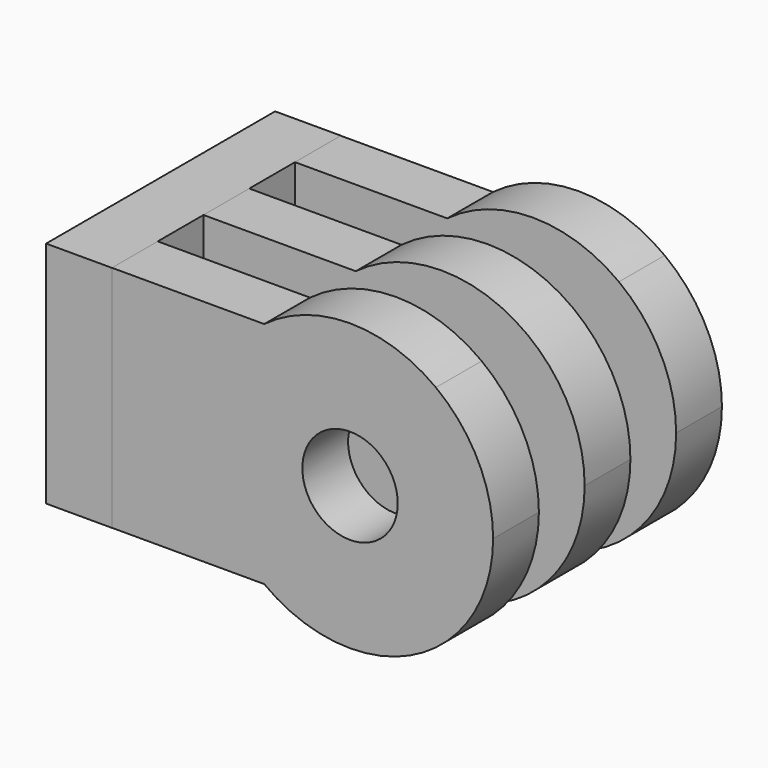
from build123d import *

# Parameters (mm, degrees)
F0_W      = 8.9999904667
F0_H      = 12.0000014
F0_R      = 2.499995
F1_DEPTH  = 1.499997
F2_DEPTH  = 2.999994
F4_DEPTH  = 2.999994
F6_DEPTH  = 2.999994
F8_DEPTH  = 2.999994
F10_W     = 3.4485142678
F10_H     = 12.0000014
F11_DEPTH = 7.504303


with BuildPart() as f1:
    # F0 (on Front) → F1 (new body, symmetric)
    with BuildSketch(Plane.XZ):
        with BuildLine():
            ThreePointArc((4.4999952333, -6.0000007), (6.7082009287, -3.3541028309), (7.4999977, 0))
            ThreePointArc((7.4999977, 0), (6.7082009287, 3.3541028309), (4.4999952333, 6.0000007))
            Line((4.4999952333, 6.0000007), (4.4999952333, -6.0000007))
        make_face()
        with BuildLine():
            Line((-4.4999952333, 6.0000007), (4.4999952333, 6.0000007))
            ThreePointArc((4.4999952333, 6.0000007), (0, 7.4999977), (-4.4999952333, 6.0000007))
        make_face()
        Rectangle(F0_W, F0_H)
        Circle(F0_R, mode=Mode.SUBTRACT)
        with BuildLine():
            ThreePointArc((-4.4999952333, -6.0000007), (0, -7.4999977), (4.4999952333, -6.0000007))
            Line((4.4999952333, -6.0000007), (-4.4999952333, -6.0000007))
        make_face()
        with BuildLine():
            Line((-4.4999952333, -6.0000007), (-4.4999952333, 6.0000007))
            ThreePointArc((-4.4999952333, 6.0000007), (-7.4999977, 0), (-4.4999952333, -6.0000007))
        make_face()
        with BuildLine():
            ThreePointArc((-4.4999952333, -6.0000007), (-7.4999977, 0), (-4.4999952333, 6.0000007))
            Line((-4.4999952333, 6.0000007), (-12.4999961667, 6.0000007))
            Line((-12.4999961667, 6.0000007), (-12.4999961667, -6.0000007))
            Line((-12.4999961667, -6.0000007), (-4.4999952333, -6.0000007))
        make_face()
    extrude(amount=F1_DEPTH, both=True)


with BuildPart() as f2:
    # F0 (on Front) → F2 (new body)
    with BuildSketch(Plane.XZ):
        with BuildLine():
            ThreePointArc((4.4999952333, -6.0000007), (6.7082009287, -3.3541028309), (7.4999977, 0))
            ThreePointArc((7.4999977, 0), (6.7082009287, 3.3541028309), (4.4999952333, 6.0000007))
            Line((4.4999952333, 6.0000007), (4.4999952333, -6.0000007))
        make_face()
        with BuildLine():
            Line((-4.4999952333, 6.0000007), (4.4999952333, 6.0000007))
            ThreePointArc((4.4999952333, 6.0000007), (0, 7.4999977), (-4.4999952333, 6.0000007))
        make_face()
        Rectangle(F0_W, F0_H)
        Circle(F0_R, mode=Mode.SUBTRACT)
        with BuildLine():
            ThreePointArc((-4.4999952333, -6.0000007), (0, -7.4999977), (4.4999952333, -6.0000007))
            Line((4.4999952333, -6.0000007), (-4.4999952333, -6.0000007))
        make_face()
        with BuildLine():
            Line((-4.4999952333, -6.0000007), (-4.4999952333, 6.0000007))
            ThreePointArc((-4.4999952333, 6.0000007), (-7.4999977, 0), (-4.4999952333, -6.0000007))
        make_face()
        with BuildLine():
            ThreePointArc((-4.4999952333, -6.0000007), (-7.4999977, 0), (-4.4999952333, 6.0000007))
            Line((-4.4999952333, 6.0000007), (-12.4999961667, 6.0000007))
            Line((-12.4999961667, 6.0000007), (-12.4999961667, -6.0000007))
            Line((-12.4999961667, -6.0000007), (-4.4999952333, -6.0000007))
        make_face()
    extrude(amount=-F2_DEPTH)


with BuildPart() as f2_1:
    # F3: moved
    add(f2.part.moved(Location((0, 1.4986, 0))))


with BuildPart() as f4:
    # F0 (on Front) → F4 (new body)
    with BuildSketch(Plane.XZ):
        with BuildLine():
            ThreePointArc((4.4999952333, -6.0000007), (6.7082009287, -3.3541028309), (7.4999977, 0))
            ThreePointArc((7.4999977, 0), (6.7082009287, 3.3541028309), (4.4999952333, 6.0000007))
            Line((4.4999952333, 6.0000007), (4.4999952333, -6.0000007))
        make_face()
        with BuildLine():
            Line((-4.4999952333, 6.0000007), (4.4999952333, 6.0000007))
            ThreePointArc((4.4999952333, 6.0000007), (0, 7.4999977), (-4.4999952333, 6.0000007))
        make_face()
        Rectangle(F0_W, F0_H)
        Circle(F0_R, mode=Mode.SUBTRACT)
        with BuildLine():
            ThreePointArc((-4.4999952333, -6.0000007), (0, -7.4999977), (4.4999952333, -6.0000007))
            Line((4.4999952333, -6.0000007), (-4.4999952333, -6.0000007))
        make_face()
        with BuildLine():
            Line((-4.4999952333, -6.0000007), (-4.4999952333, 6.0000007))
            ThreePointArc((-4.4999952333, 6.0000007), (-7.4999977, 0), (-4.4999952333, -6.0000007))
        make_face()
        with BuildLine():
            ThreePointArc((-4.4999952333, -6.0000007), (-7.4999977, 0), (-4.4999952333, 6.0000007))
            Line((-4.4999952333, 6.0000007), (-12.4999961667, 6.0000007))
            Line((-12.4999961667, 6.0000007), (-12.4999961667, -6.0000007))
            Line((-12.4999961667, -6.0000007), (-4.4999952333, -6.0000007))
        make_face()
    extrude(amount=F4_DEPTH)


with BuildPart() as f4_1:
    # F5: moved
    add(f4.part.moved(Location((0, -1.500124, 0))))


with BuildPart() as f6:
    # F0 (on Front) → F6 (new body)
    with BuildSketch(Plane.XZ):
        with BuildLine():
            ThreePointArc((4.4999952333, -6.0000007), (6.7082009287, -3.3541028309), (7.4999977, 0))
            ThreePointArc((7.4999977, 0), (6.7082009287, 3.3541028309), (4.4999952333, 6.0000007))
            Line((4.4999952333, 6.0000007), (4.4999952333, -6.0000007))
        make_face()
        with BuildLine():
            Line((-4.4999952333, 6.0000007), (4.4999952333, 6.0000007))
            ThreePointArc((4.4999952333, 6.0000007), (0, 7.4999977), (-4.4999952333, 6.0000007))
        make_face()
        Rectangle(F0_W, F0_H)
        Circle(F0_R, mode=Mode.SUBTRACT)
        with BuildLine():
            ThreePointArc((-4.4999952333, -6.0000007), (0, -7.4999977), (4.4999952333, -6.0000007))
            Line((4.4999952333, -6.0000007), (-4.4999952333, -6.0000007))
        make_face()
        with BuildLine():
            Line((-4.4999952333, -6.0000007), (-4.4999952333, 6.0000007))
            ThreePointArc((-4.4999952333, 6.0000007), (-7.4999977, 0), (-4.4999952333, -6.0000007))
        make_face()
        with BuildLine():
            ThreePointArc((-4.4999952333, -6.0000007), (-7.4999977, 0), (-4.4999952333, 6.0000007))
            Line((-4.4999952333, 6.0000007), (-12.4999961667, 6.0000007))
            Line((-12.4999961667, 6.0000007), (-12.4999961667, -6.0000007))
            Line((-12.4999961667, -6.0000007), (-4.4999952333, -6.0000007))
        make_face()
    extrude(amount=F6_DEPTH)


with BuildPart() as f6_1:
    # F7: moved
    add(f6.part.moved(Location((0, -4.49834, 0))))


with BuildPart() as f8:
    # F0 (on Front) → F8 (new body)
    with BuildSketch(Plane.XZ):
        with BuildLine():
            ThreePointArc((4.4999952333, -6.0000007), (6.7082009287, -3.3541028309), (7.4999977, 0))
            ThreePointArc((7.4999977, 0), (6.7082009287, 3.3541028309), (4.4999952333, 6.0000007))
            Line((4.4999952333, 6.0000007), (4.4999952333, -6.0000007))
        make_face()
        with BuildLine():
            Line((-4.4999952333, 6.0000007), (4.4999952333, 6.0000007))
            ThreePointArc((4.4999952333, 6.0000007), (0, 7.4999977), (-4.4999952333, 6.0000007))
        make_face()
        Rectangle(F0_W, F0_H)
        Circle(F0_R, mode=Mode.SUBTRACT)
        with BuildLine():
            ThreePointArc((-4.4999952333, -6.0000007), (0, -7.4999977), (4.4999952333, -6.0000007))
            Line((4.4999952333, -6.0000007), (-4.4999952333, -6.0000007))
        make_face()
        with BuildLine():
            Line((-4.4999952333, -6.0000007), (-4.4999952333, 6.0000007))
            ThreePointArc((-4.4999952333, 6.0000007), (-7.4999977, 0), (-4.4999952333, -6.0000007))
        make_face()
        with BuildLine():
            ThreePointArc((-4.4999952333, -6.0000007), (-7.4999977, 0), (-4.4999952333, 6.0000007))
            Line((-4.4999952333, 6.0000007), (-12.4999961667, 6.0000007))
            Line((-12.4999961667, 6.0000007), (-12.4999961667, -6.0000007))
            Line((-12.4999961667, -6.0000007), (-4.4999952333, -6.0000007))
        make_face()
    extrude(amount=F8_DEPTH)


with BuildPart() as f8_1:
    # F9: moved
    add(f8.part.moved(Location((0, 7.49554, 0))))


with BuildPart() as f11:
    # F10 (on Front) → F11 (new body, symmetric)
    with BuildSketch(Plane.XZ):
        with Locations((-14.2310289666, 0)):
            Rectangle(F10_W, F10_H)
    extrude(amount=F11_DEPTH, both=True)


with BuildPart() as f11_1:
    # F12: moved
    add(f11.part.moved(Location((0.0254, 0, 0))))


solid = Compound([f1.part, f6_1.part, f8_1.part, f11_1.part])
